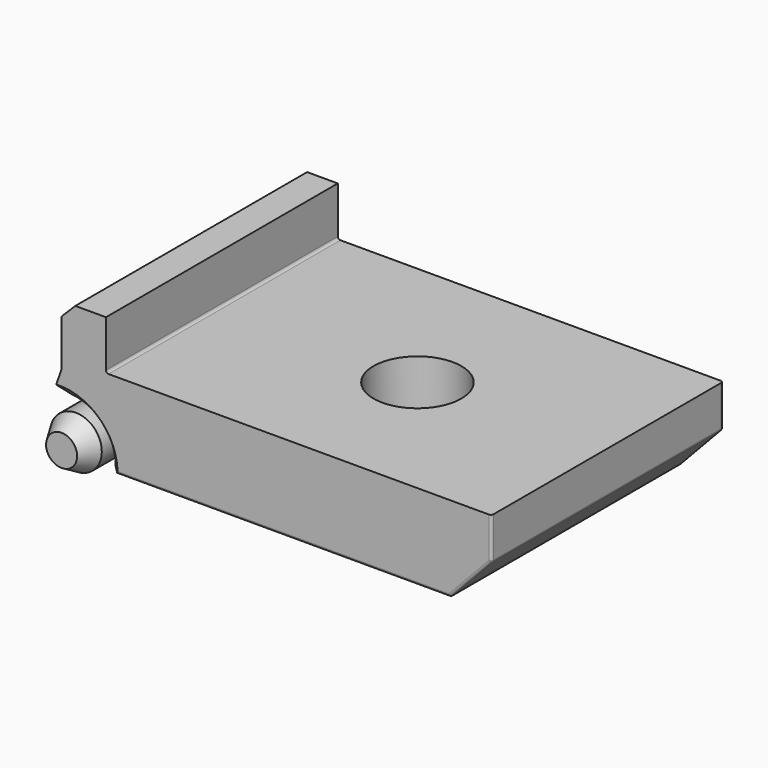
from build123d import *

# Parameters (mm, degrees)
PAD007_DEPTH    = 28
SKETCH013_R     = 4.625
POCKET004_DEPTH = 7
SKETCH015_R     = 4.25
POCKET005_DEPTH = 49.001
SKETCH016_R     = 8.625
POCKET006_DEPTH = 4
CHAMFER_SIZE    = 1
FILLET007_R     = 0.25
FILLET008_R     = 0.35


with BuildPart() as part:
    # Sketch012 → Pad007 (new body)
    with BuildSketch(Plane(origin=(16, 14.5, -38.1), x_dir=(1, 0, 0), z_dir=(0, 1, 0))):
        with BuildLine():
            Line((0.5, 0.25), (37.5, 0.25))
            Line((37.5, 0.25), (37.5, 4.25))
            Line((33.5, 8.5), (37.5, 4.25))
            Line((33.5, 8.5), (-1.752001, 8.5))
            ThreePointArc((-1.752001, 8.5), (-5.341153, 10.649307), (-5.874808, 6.5))
            Line((-5.874808, 6.5), (-4.064, 1.4))
            Line((-4.064, 1.4), (-4.064, -3.148735))
            Line((-4.064, -3.148735), (-2.712735, -4.5))
            Line((-2.712735, -4.5), (0.25, -4.5))
            Line((0.25, -4.5), (0.25, 0))
            ThreePointArc((0.5, 0.25), (0.323223, 0.176777), (0.25, 0))
        make_face()
    extrude(amount=-PAD007_DEPTH)

    # Sketch013 → Pocket004 (cut)
    with BuildSketch(Plane.XZ.offset(6.5)):
        with Locations((11.75, -46.5)):
            Circle(SKETCH013_R)
    extrude(amount=POCKET004_DEPTH, mode=Mode.SUBTRACT)

    # Sketch014 → Revolution001 (revolve)
    with BuildSketch(Plane(origin=(11.75, -6.5, -46.5), x_dir=(0, 1, 0), z_dir=(1, 0, 0))):
        Polygon((-6.732051, 1.5), (-6.732051, 0), (0, 0), (0, 2.5), (-5, 2.5), align=None)
    revolve(axis=Axis((11.75, -6.5, -46.5), (0, 1, 0)))

    # Sketch015 → Pocket005 (cut, through all)
    with BuildSketch(Plane.XY):
        with Locations((35.55, 0)):
            Circle(SKETCH015_R)
    extrude(amount=-POCKET005_DEPTH, mode=Mode.SUBTRACT)

    # Sketch016 → Pocket006 (cut)
    with BuildSketch(Plane.XY.offset(-43)):
        with Locations((35.55, 0)):
            Circle(SKETCH016_R)
    extrude(amount=-POCKET006_DEPTH, mode=Mode.SUBTRACT)

    # Chamfer
    chamfer_edges = [part.edges().sort_by_distance(p)[0] for p in [
        (14.772373, -13.5, -42.999159),
        (11.075157, -10, -41.924499),
    ]]
    chamfer(chamfer_edges, length=CHAMFER_SIZE)

    # Fillet007
    fillet007_edges = [part.edges().sort_by_distance(p)[0] for p in [
        (33.437056, -13.5, -46.6),
        (51.5, -13.5, -44.475),
        (53.5, -13.5, -40.35),
        (53.5, 14.5, -40.35),
        (53.5, 0.5, -42.35),
        (51.5, 14.5, -44.475),
        (49.5, 0.5, -46.6),
        (31.874, 14.5, -46.6),
        (10.658847, 14.5, -48.749307),
    ]]
    fillet(fillet007_edges, radius=FILLET007_R)

    # Fillet008
    fillet008_edges = [part.edges().sort_by_distance(p)[0] for p in [
        (26.925, 0, -46.6),
    ]]
    fillet(fillet008_edges, radius=FILLET008_R)


solid = part.part
